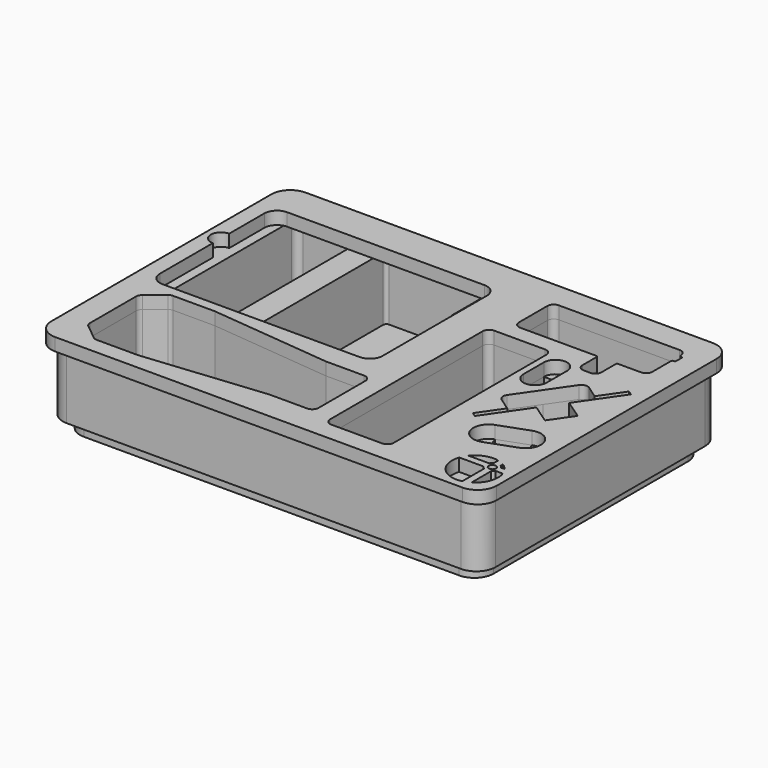
from build123d import *

# Parameters (mm, degrees)
F1_DEPTH = 63.5
F3_DEPTH = 12.7
F4_R     = 3.625041
F5_DEPTH = 12.7


with BuildPart() as f1:
    # F0 (on Top) → F1 (new body)
    with BuildSketch(Plane.XY):
        with BuildLine():
            Line((196.85, 149.86), (-196.85, 149.86))
            ThreePointArc((-196.85, 149.86), (-210.320384, 144.280384), (-215.9, 130.81))
            Line((-215.9, 130.81), (-215.9, -130.81))
            ThreePointArc((-215.9, -130.81), (-210.320384, -144.280384), (-196.85, -149.86))
            Line((-196.85, -149.86), (196.85, -149.86))
            ThreePointArc((196.85, -149.86), (210.320384, -144.280384), (215.9, -130.81))
            Line((215.9, -130.81), (215.9, 130.81))
            ThreePointArc((215.9, 130.81), (210.320384, 144.280384), (196.85, 149.86))
        make_face()
        with BuildLine():
            ThreePointArc((-194.486228, -125.731268), (-196.228658, -123.527866), (-196.85, -120.788345))
            Line((-196.85, -120.788345), (-196.85, -63.361655))
            ThreePointArc((-196.85, -63.361655), (-196.228658, -60.622134), (-194.486228, -58.418732))
            Line((-194.486228, -58.418732), (-178.909776, -45.857077))
            ThreePointArc((-178.909776, -45.857077), (-177.037187, -44.812093), (-174.923548, -44.45))
            Line((-174.923548, -44.45), (-133.35, -44.45))
            Line((-133.35, -44.45), (-12.7, -56.515))
            Line((-12.7, -56.515), (25.4, -56.515))
            ThreePointArc((25.4, -56.515), (29.890128, -58.374872), (31.75, -62.865))
            Line((31.75, -62.865), (31.75, -121.285))
            ThreePointArc((31.75, -121.285), (29.890128, -125.775128), (25.4, -127.635))
            Line((25.4, -127.635), (-12.7, -127.635))
            Line((-12.7, -127.635), (-133.35, -139.7))
            Line((-133.35, -139.7), (-174.923548, -139.7))
            ThreePointArc((-174.923548, -139.7), (-177.037187, -139.337907), (-178.909776, -138.292923))
            Line((-178.909776, -138.292923), (-194.486228, -125.731268))
        make_face(mode=Mode.SUBTRACT)
        with BuildLine():
            ThreePointArc((114.3, -130.81), (112.440128, -135.300128), (107.95, -137.16))
            Line((107.95, -137.16), (57.15, -137.16))
            ThreePointArc((57.15, -137.16), (52.659872, -135.300128), (50.8, -130.81))
            Line((50.8, -130.81), (50.8, 59.69))
            ThreePointArc((50.8, 59.69), (52.659872, 64.180128), (57.15, 66.04))
            Line((57.15, 66.04), (107.95, 66.04))
            ThreePointArc((107.95, 66.04), (112.440128, 64.180128), (114.3, 59.69))
            Line((114.3, 59.69), (114.3, -130.81))
        make_face(mode=Mode.SUBTRACT)
        Polygon((167.420417, -86.494811), (156.995643, -57.85298), (185.637474, -47.428206), (196.062248, -76.070037), align=None, mode=Mode.SUBTRACT)
        with BuildLine():
            Line((132.906512, -12.550626), (149.503301, 11.486234))
            Line((149.503301, 11.486234), (166.10009, 35.523095))
            ThreePointArc((166.10009, 35.523095), (170.181815, 38.161256), (174.933492, 37.140502))
            Line((174.933492, 37.140502), (187.474463, 28.481308))
            Line((187.474463, 28.481308), (203.349653, 51.473088))
            Line((203.349653, 51.473088), (207.529977, 48.58669))
            Line((207.529977, 48.58669), (179.026795, 7.305994))
            Line((179.026795, 7.305994), (197.838252, -5.682798))
            Line((197.838252, -5.682798), (190.261456, -16.656147))
            Line((190.261456, -16.656147), (182.684661, -27.629497))
            Line((182.684661, -27.629497), (163.873205, -14.640705))
            Line((163.873205, -14.640705), (135.370023, -55.921401))
            Line((135.370023, -55.921401), (131.1897, -53.035003))
            Line((131.1897, -53.035003), (147.064889, -30.043223))
            Line((147.064889, -30.043223), (134.523918, -21.384029))
            ThreePointArc((134.523918, -21.384029), (131.885758, -17.302304), (132.906512, -12.550626))
        make_face(mode=Mode.SUBTRACT)
        with BuildLine():
            ThreePointArc((-190.5, -21.59), (-194.990128, -19.730128), (-196.85, -15.24))
            Line((-196.85, -15.24), (-196.85, 130.81))
            ThreePointArc((-196.85, 130.81), (-194.990128, 135.300128), (-190.5, 137.16))
            Line((-190.5, 137.16), (-136.525, 137.16))
            ThreePointArc((-136.525, 137.16), (-134.279936, 136.230064), (-133.35, 133.985))
            Line((-133.35, 133.985), (-133.35, -18.415))
            ThreePointArc((-133.35, -18.415), (-134.279936, -20.660064), (-136.525, -21.59))
            Line((-136.525, -21.59), (-190.5, -21.59))
        make_face(mode=Mode.SUBTRACT)
        with BuildLine():
            Line((31.75, 26.035), (31.75, -21.59))
            ThreePointArc((31.75, -21.59), (29.890128, -26.080128), (25.4, -27.94))
            Line((25.4, -27.94), (-15.875, -27.94))
            ThreePointArc((-15.875, -27.94), (-18.120064, -27.010064), (-19.05, -24.765))
            ThreePointArc((-19.05, -24.765), (-19.979936, -22.519936), (-22.225, -21.59))
            Line((-22.225, -21.59), (-104.775, -21.59))
            ThreePointArc((-104.775, -21.59), (-107.020064, -20.660064), (-107.95, -18.415))
            Line((-107.95, -18.415), (-107.95, 133.985))
            ThreePointArc((-107.95, 133.985), (-107.020064, 136.230064), (-104.775, 137.16))
            Line((-104.775, 137.16), (-6.35, 137.16))
            ThreePointArc((-6.35, 137.16), (-1.859872, 135.300128), (0, 130.81))
            Line((0, 130.81), (0, 86.36))
            ThreePointArc((0, 86.36), (1.859872, 81.869872), (6.35, 80.01))
            Line((6.35, 80.01), (34.925, 80.01))
            ThreePointArc((34.925, 80.01), (37.170064, 79.080064), (38.1, 76.835))
            Line((38.1, 76.835), (38.1, 32.385))
            ThreePointArc((38.1, 32.385), (37.170064, 30.139936), (34.925, 29.21))
            ThreePointArc((34.925, 29.21), (32.679936, 28.280064), (31.75, 26.035))
        make_face(mode=Mode.SUBTRACT)
        with BuildLine():
            Line((120.846925, 33.165183), (120.846925, 48.405183))
            Line((120.846925, 48.405183), (143.960925, 48.405183))
            Line((143.960925, 48.405183), (143.960925, 33.165183))
            ThreePointArc((143.960925, 33.165183), (132.403925, 21.608183), (120.846925, 33.165183))
        make_face(mode=Mode.SUBTRACT)
        with BuildLine():
            ThreePointArc((69.85, 82.55), (65.359872, 84.409872), (63.5, 88.9))
            Line((63.5, 88.9), (63.5, 124.46))
            ThreePointArc((63.5, 124.46), (65.359872, 128.950128), (69.85, 130.81))
            Line((69.85, 130.81), (190.5, 130.81))
            ThreePointArc((190.5, 130.81), (194.990128, 128.950128), (196.85, 124.46))
            Line((196.85, 124.46), (196.85, 124.1298))
            ThreePointArc((196.85, 124.1298), (197.226412, 123.239995), (198.119936, 122.8725))
            Line((198.119936, 122.8725), (198.755, 122.8725))
            ThreePointArc((198.755, 122.8725), (199.653026, 122.500526), (200.025, 121.6025))
            Line((200.025, 121.6025), (200.025, 114.6175))
            ThreePointArc((200.025, 114.6175), (199.653026, 113.719474), (198.755, 113.3475))
            Line((198.755, 113.3475), (198.12, 113.3475))
            ThreePointArc((198.12, 113.3475), (197.221974, 112.975526), (196.85, 112.0775))
            Line((196.85, 112.0775), (196.85, 88.9))
            ThreePointArc((196.85, 88.9), (194.990128, 84.409872), (190.5, 82.55))
            Line((190.5, 82.55), (167.64, 82.55))
            ThreePointArc((167.64, 82.55), (166.741974, 82.178026), (166.37, 81.28))
            Line((166.37, 81.28), (166.37, 63.5))
            ThreePointArc((166.37, 63.5), (164.510128, 59.009872), (160.02, 57.15))
            Line((160.02, 57.15), (153.67, 57.15))
            ThreePointArc((153.67, 57.15), (149.179872, 59.009872), (147.32, 63.5))
            Line((147.32, 63.5), (147.32, 81.28))
            ThreePointArc((147.32, 81.28), (146.948026, 82.178026), (146.05, 82.55))
            Line((146.05, 82.55), (69.85, 82.55))
        make_face(mode=Mode.SUBTRACT)
    extrude(amount=F1_DEPTH)


with BuildPart() as f3:
    # F2 (on Top) → F3 (new body)
    with BuildSketch(Plane.XY):
        with BuildLine():
            Line((187.325, 140.335), (-187.325, 140.335))
            ThreePointArc((-187.325, 140.335), (-200.795384, 134.755384), (-206.375, 121.285))
            Line((-206.375, 121.285), (-206.375, -121.285))
            ThreePointArc((-206.375, -121.285), (-200.795384, -134.755384), (-187.325, -140.335))
            Line((-187.325, -140.335), (187.325, -140.335))
            ThreePointArc((187.325, -140.335), (200.795384, -134.755384), (206.375, -121.285))
            Line((206.375, -121.285), (206.375, 121.285))
            ThreePointArc((206.375, 121.285), (200.795384, 134.755384), (187.325, 140.335))
        make_face()
        with BuildLine():
            Line((-182.968114, -65.445176), (-173.554483, -57.853539))
            ThreePointArc((-173.554483, -57.853539), (-172.618189, -57.331047), (-171.561369, -57.15))
            Line((-171.561369, -57.15), (-134.141775, -57.15))
            ThreePointArc((-134.141775, -57.15), (-133.983617, -57.153942), (-133.825851, -57.165757))
            Line((-133.825851, -57.165757), (-13.49099, -69.199243))
            ThreePointArc((-13.49099, -69.199243), (-13.333224, -69.211058), (-13.175065, -69.215))
            Line((-13.175065, -69.215), (15.875, -69.215))
            ThreePointArc((15.875, -69.215), (18.120064, -70.144936), (19.05, -72.39))
            Line((19.05, -72.39), (19.05, -79.375))
            ThreePointArc((19.05, -79.375), (19.979936, -81.620064), (22.225, -82.55))
            Line((22.225, -82.55), (76.2, -82.55))
            ThreePointArc((76.2, -82.55), (85.725, -92.075), (76.2, -101.6))
            Line((76.2, -101.6), (22.225, -101.6))
            ThreePointArc((22.225, -101.6), (19.979936, -102.529936), (19.05, -104.775))
            Line((19.05, -104.775), (19.05, -111.76))
            ThreePointArc((19.05, -111.76), (18.120064, -114.005064), (15.875, -114.935))
            Line((15.875, -114.935), (-13.175065, -114.935))
            ThreePointArc((-13.175065, -114.935), (-13.333224, -114.938942), (-13.49099, -114.950757))
            Line((-13.49099, -114.950757), (-133.825851, -126.984243))
            ThreePointArc((-133.825851, -126.984243), (-133.983617, -126.996058), (-134.141775, -127))
            Line((-134.141775, -127), (-171.561369, -127))
            ThreePointArc((-171.561369, -127), (-172.618189, -126.818953), (-173.554483, -126.296461))
            Line((-173.554483, -126.296461), (-182.968114, -118.704824))
            ThreePointArc((-182.968114, -118.704824), (-183.839329, -117.603123), (-184.15, -116.233362))
            Line((-184.15, -116.233362), (-184.15, -67.916638))
            ThreePointArc((-184.15, -67.916638), (-183.839329, -66.546877), (-182.968114, -65.445176))
        make_face(mode=Mode.SUBTRACT)
        with BuildLine():
            Line((-158.75, 41.91), (-158.75, 54.61))
            Line((-158.75, 54.61), (-158.75, 67.31))
            ThreePointArc((-158.75, 67.31), (-157.820064, 69.555064), (-155.575, 70.485))
            Line((-155.575, 70.485), (-85.725, 70.485))
            ThreePointArc((-85.725, 70.485), (-83.479936, 69.555064), (-82.55, 67.31))
            Line((-82.55, 67.31), (-82.55, 54.61))
            Line((-82.55, 54.61), (-82.55, 41.91))
            ThreePointArc((-82.55, 41.91), (-83.479936, 39.664936), (-85.725, 38.735))
            Line((-85.725, 38.735), (-155.575, 38.735))
            ThreePointArc((-155.575, 38.735), (-157.820064, 39.664936), (-158.75, 41.91))
        make_face(mode=Mode.SUBTRACT)
        with BuildLine():
            ThreePointArc((-8.125321, 54.61), (-6.265449, 59.100128), (-1.775321, 60.96))
            Line((-1.775321, 60.96), (87.124679, 60.96))
            ThreePointArc((87.124679, 60.96), (91.614807, 59.100128), (93.474679, 54.61))
            Line((93.474679, 54.61), (93.474679, 35.56))
            ThreePointArc((93.474679, 35.56), (91.614807, 31.069872), (87.124679, 29.21))
            Line((87.124679, 29.21), (-1.775321, 29.21))
            ThreePointArc((-1.775321, 29.21), (-6.265449, 31.069872), (-8.125321, 35.56))
            Line((-8.125321, 35.56), (-8.125321, 54.61))
        make_face(mode=Mode.SUBTRACT)
    extrude(amount=-F3_DEPTH)


with BuildPart() as f5:
    # F4 (on face) → F5 (new body)
    with BuildSketch(Plane.XY.offset(63.5)):
        with BuildLine():
            Line((203.2, 156.21), (-203.2, 156.21))
            ThreePointArc((-203.2, 156.21), (-216.670384, 150.630384), (-222.25, 137.16))
            Line((-222.25, 137.16), (-222.25, -137.16))
            ThreePointArc((-222.25, -137.16), (-216.670384, -150.630384), (-203.2, -156.21))
            Line((-203.2, -156.21), (203.2, -156.21))
            ThreePointArc((203.2, -156.21), (216.670384, -150.630384), (222.25, -137.16))
            Line((222.25, -137.16), (222.25, 137.16))
            ThreePointArc((222.25, 137.16), (216.670384, 150.630384), (203.2, 156.21))
        make_face()
        with BuildLine():
            ThreePointArc((-194.486228, -125.731268), (-196.228658, -123.527866), (-196.85, -120.788345))
            Line((-196.85, -120.788345), (-196.85, -63.361655))
            ThreePointArc((-196.85, -63.361655), (-196.228658, -60.622134), (-194.486228, -58.418732))
            Line((-194.486228, -58.418732), (-178.909776, -45.857077))
            ThreePointArc((-178.909776, -45.857077), (-177.037187, -44.812093), (-174.923548, -44.45))
            Line((-174.923548, -44.45), (-133.35, -44.45))
            Line((-133.35, -44.45), (-12.7, -56.515))
            Line((-12.7, -56.515), (25.4, -56.515))
            ThreePointArc((25.4, -56.515), (29.890128, -58.374872), (31.75, -62.865))
            Line((31.75, -62.865), (31.75, -121.285))
            ThreePointArc((31.75, -121.285), (29.890128, -125.775128), (25.4, -127.635))
            Line((25.4, -127.635), (-12.7, -127.635))
            Line((-12.7, -127.635), (-133.35, -139.7))
            Line((-133.35, -139.7), (-174.923548, -139.7))
            ThreePointArc((-174.923548, -139.7), (-177.037187, -139.337907), (-178.909776, -138.292923))
            Line((-178.909776, -138.292923), (-194.486228, -125.731268))
        make_face(mode=Mode.SUBTRACT)
        with BuildLine():
            ThreePointArc((196.533806, -148.057465), (174.294775, -141.023854), (169.616007, -118.173136))
            Line((169.616007, -118.173136), (194.040296, -118.173136))
            ThreePointArc((194.040296, -118.173136), (195.12522, -119.57191), (196.533806, -120.644062))
            Line((196.533806, -120.644062), (196.533806, -148.057465))
        make_face(mode=Mode.SUBTRACT)
        with BuildLine():
            ThreePointArc((213.182481, -118.173136), (213.066619, -133.392241), (203.479767, -145.212853))
            Line((203.479767, -145.212853), (203.479767, -120.543668))
            ThreePointArc((203.479767, -120.543668), (204.788338, -119.50208), (205.803805, -118.173136))
            Line((205.803805, -118.173136), (213.182481, -118.173136))
        make_face(mode=Mode.SUBTRACT)
        with BuildLine():
            Line((194.049021, -111.274474), (173.393456, -111.274474))
            ThreePointArc((173.393456, -111.274474), (183.796029, -103.889064), (196.533806, -103.177126))
            Line((196.533806, -103.177126), (196.533806, -108.818414))
            ThreePointArc((196.533806, -108.818414), (195.131345, -109.884503), (194.049021, -111.274474))
        make_face(mode=Mode.SUBTRACT)
        with Locations((199.939422, -114.766106)):
            Circle(F4_R, mode=Mode.SUBTRACT)
        with BuildLine():
            ThreePointArc((203.479767, -106.021738), (206.669946, -108.391426), (209.405032, -111.274474))
            Line((209.405032, -111.274474), (205.79508, -111.274474))
            ThreePointArc((205.79508, -111.274474), (204.782301, -109.954245), (203.479767, -108.918808))
            Line((203.479767, -108.918808), (203.479767, -106.021738))
        make_face(mode=Mode.SUBTRACT)
        with BuildLine():
            ThreePointArc((114.3, -130.81), (112.440128, -135.300128), (107.95, -137.16))
            Line((107.95, -137.16), (57.15, -137.16))
            ThreePointArc((57.15, -137.16), (52.659872, -135.300128), (50.8, -130.81))
            Line((50.8, -130.81), (50.8, 59.69))
            ThreePointArc((50.8, 59.69), (52.659872, 64.180128), (57.15, 66.04))
            Line((57.15, 66.04), (107.95, 66.04))
            ThreePointArc((107.95, 66.04), (112.440128, 64.180128), (114.3, 59.69))
            Line((114.3, 59.69), (114.3, -130.81))
        make_face(mode=Mode.SUBTRACT)
        with BuildLine():
            ThreePointArc((167.420417, -86.494811), (147.887115, -77.386282), (156.995643, -57.85298))
            Line((156.995643, -57.85298), (185.637474, -47.428206))
            ThreePointArc((185.637474, -47.428206), (205.170777, -56.536734), (196.062248, -76.070037))
            Line((196.062248, -76.070037), (167.420417, -86.494811))
        make_face(mode=Mode.SUBTRACT)
        with BuildLine():
            Line((132.906512, -12.550626), (166.10009, 35.523095))
            ThreePointArc((166.10009, 35.523095), (170.181815, 38.161256), (174.933492, 37.140502))
            Line((174.933492, 37.140502), (187.474463, 28.481308))
            Line((187.474463, 28.481308), (203.349653, 51.473088))
            Line((203.349653, 51.473088), (207.529977, 48.58669))
            Line((207.529977, 48.58669), (179.026795, 7.305994))
            Line((179.026795, 7.305994), (197.838252, -5.682798))
            Line((197.838252, -5.682798), (182.684661, -27.629497))
            Line((182.684661, -27.629497), (163.873205, -14.640705))
            Line((163.873205, -14.640705), (135.370023, -55.921401))
            Line((135.370023, -55.921401), (131.1897, -53.035003))
            Line((131.1897, -53.035003), (147.064889, -30.043223))
            Line((147.064889, -30.043223), (134.523918, -21.384029))
            ThreePointArc((134.523918, -21.384029), (131.885758, -17.302304), (132.906512, -12.550626))
        make_face(mode=Mode.SUBTRACT)
        with BuildLine():
            Line((3.175, -34.29), (-193.675, -34.29))
            ThreePointArc((-193.675, -34.29), (-202.655256, -30.570256), (-206.375, -21.59))
            Line((-206.375, -21.59), (-206.375, 44.45))
            ThreePointArc((-206.375, 44.45), (-216.535, 54.61), (-206.375, 64.77))
            Line((-206.375, 64.77), (-206.375, 103.951998))
            Line((-206.375, 103.951998), (-206.375, 108.585))
            ThreePointArc((-206.375, 108.585), (-202.655256, 117.565256), (-193.675, 121.285))
            Line((-193.675, 121.285), (3.175, 121.285))
            ThreePointArc((3.175, 121.285), (12.155256, 117.565256), (15.875, 108.585))
            Line((15.875, 108.585), (15.875, -21.59))
            ThreePointArc((15.875, -21.59), (12.155256, -30.570256), (3.175, -34.29))
        make_face(mode=Mode.SUBTRACT)
        with BuildLine():
            Line((120.846925, 33.165183), (120.846925, 48.405183))
            ThreePointArc((120.846925, 48.405183), (132.403925, 59.962183), (143.960925, 48.405183))
            Line((143.960925, 48.405183), (143.960925, 33.165183))
            Line((143.960925, 33.165183), (143.960925, 23.005183))
            ThreePointArc((143.960925, 23.005183), (132.403925, 11.448183), (120.846925, 23.005183))
            Line((120.846925, 23.005183), (120.846925, 33.165183))
        make_face(mode=Mode.SUBTRACT)
        with BuildLine():
            ThreePointArc((69.85, 82.55), (65.359872, 84.409872), (63.5, 88.9))
            Line((63.5, 88.9), (63.5, 124.46))
            ThreePointArc((63.5, 124.46), (65.359872, 128.950128), (69.85, 130.81))
            Line((69.85, 130.81), (190.5, 130.81))
            ThreePointArc((190.5, 130.81), (194.990128, 128.950128), (196.85, 124.46))
            Line((196.85, 124.46), (196.85, 124.1298))
            ThreePointArc((196.85, 124.1298), (197.226412, 123.239995), (198.119936, 122.8725))
            Line((198.119936, 122.8725), (198.755, 122.8725))
            ThreePointArc((198.755, 122.8725), (199.653026, 122.500526), (200.025, 121.6025))
            Line((200.025, 121.6025), (200.025, 114.6175))
            ThreePointArc((200.025, 114.6175), (199.653026, 113.719474), (198.755, 113.3475))
            Line((198.755, 113.3475), (198.12, 113.3475))
            ThreePointArc((198.12, 113.3475), (197.221974, 112.975526), (196.85, 112.0775))
            Line((196.85, 112.0775), (196.85, 88.9))
            ThreePointArc((196.85, 88.9), (194.990128, 84.409872), (190.5, 82.55))
            Line((190.5, 82.55), (167.64, 82.55))
            ThreePointArc((167.64, 82.55), (166.741974, 82.178026), (166.37, 81.28))
            Line((166.37, 81.28), (166.37, 63.5))
            ThreePointArc((166.37, 63.5), (164.510128, 59.009872), (160.02, 57.15))
            Line((160.02, 57.15), (153.67, 57.15))
            ThreePointArc((153.67, 57.15), (149.179872, 59.009872), (147.32, 63.5))
            Line((147.32, 63.5), (147.32, 81.28))
            ThreePointArc((147.32, 81.28), (146.948026, 82.178026), (146.05, 82.55))
            Line((146.05, 82.55), (69.85, 82.55))
        make_face(mode=Mode.SUBTRACT)
    extrude(amount=F5_DEPTH)


solid = Compound([f1.part, f3.part, f5.part])
